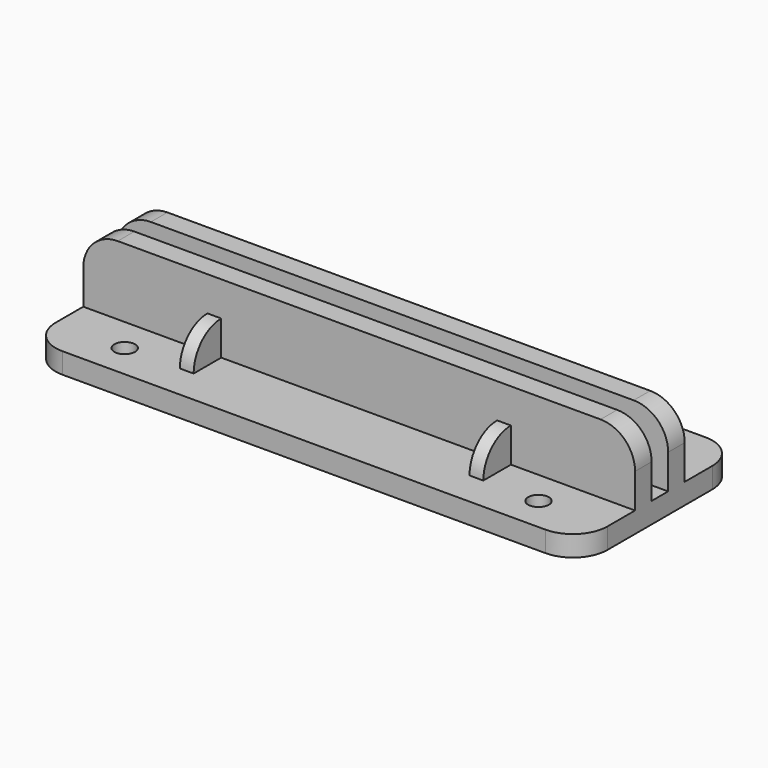
from build123d import *

# Parameters (mm, degrees)
F0_W      = 80
F0_H      = 29
F1_DEPTH  = 3
F2_W      = 80
F2_H      = 3
F3_DEPTH  = 10
F4_R      = 5
F6_D      = 3
F7_W      = 2
F7_H      = 5
F8_ANGLE  = 90
F9_W      = 2
F9_H      = 5
F10_ANGLE = 90


with BuildPart() as f1:
    # F0 (on Top) → F1 (new body)
    with BuildSketch(Plane.XY):
        Rectangle(F0_W, F0_H)
    extrude(amount=F1_DEPTH)

    # F2 (on face) → F3 (join)
    with BuildSketch(Plane.XY.offset(3)):
        with Locations((0, 3)):
            Rectangle(F2_W, F2_H)
        with Locations((0, -3)):
            Rectangle(F2_W, F2_H)
    extrude(amount=F3_DEPTH)

    # F4
    f4_edges = [f1.edges().sort_by_distance(p)[0] for p in [
        (40, 14.5, 1.5),
        (40, -14.5, 1.5),
        (-40, 14.5, 1.5),
        (-40, -14.5, 1.5),
        (40, 3, 13),
        (40, -3, 13),
        (-40, 3, 13),
        (-40, -3, 13),
    ]]
    fillet(f4_edges, radius=F4_R)

    # F6 (through all)
    with Locations(Plane.XY.offset(3)):
        with Locations((-30, 9.5), (-30, -9.5), (30, -9.5), (30, 9.5)):
            Hole(F6_D / 2)

    # F7 (on face) → F8 (revolve)
    with BuildSketch(Plane(origin=(0, 4.5, 0), x_dir=(-1, 0, 0), z_dir=(0, 1, 0))):
        with Locations((-21, 5.5)):
            Rectangle(F7_W, F7_H)
        with Locations((21, 5.5)):
            Rectangle(F7_W, F7_H)
    revolve(axis=Axis((21, 4.5, 3), (-1, 0, 0)), revolution_arc=F8_ANGLE)

    # F9 (on face) → F10 (revolve)
    with BuildSketch(Plane.XZ.offset(4.5)):
        with Locations((-21.000002, 5.5)):
            Rectangle(F9_W, F9_H)
        with Locations((21.000002, 5.5)):
            Rectangle(F9_W, F9_H)
    revolve(axis=Axis((-21.000002, -4.5, 3), (1, 0, 0)), revolution_arc=F10_ANGLE)


solid = f1.part
